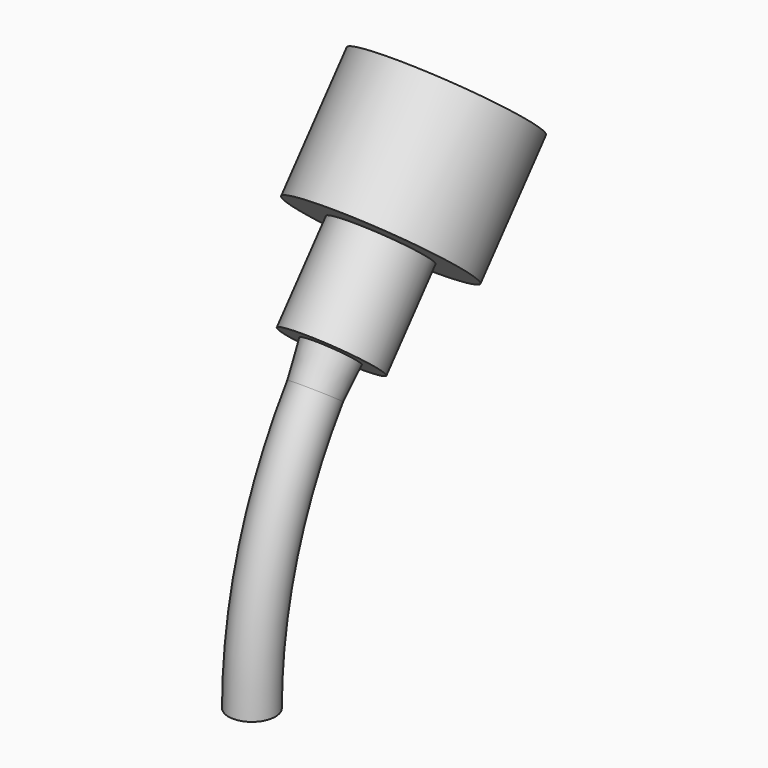
from build123d import *

# Parameters (mm, degrees)
CONE002_ROLL_ANGLE         = -35.5
BOX001027045012_W          = 10
BOX001027045012_H          = 24
BOX001027045012_DEPTH      = 22
BOX001027045012_ROLL_ANGLE = -35.5
BOX001027045011_W          = 10
BOX001027045011_H          = 24
BOX001027045011_DEPTH      = 22
TORUS002_R                 = 1.1
TORUS002_PITCH_ANGLE       = 90
CYLINDER121_R              = 4
CYLINDER121_DEPTH          = 6
CYLINDER121_ROLL_ANGLE     = -40
CYLINDER120_R              = 2.2
CYLINDER120_DEPTH          = 10
CYLINDER120_ROLL_ANGLE     = -40


with BuildPart() as cone002:
    # Cone002 → Cone002 (revolve)
    with BuildSketch(Plane.XZ):
        Polygon((0, 0), (1.1, 0), (1.3, 2), (0, 2), align=None)
    revolve(axis=Axis((0, 0, 0), (0, 0, 1)))


with BuildPart() as cone002_1:
    # Cone002 roll: moved
    add(cone002.part.rotate(Axis((0, 0, 0), (1, 0, 0)), CONE002_ROLL_ANGLE))


with BuildPart() as cone002_2:
    # Cone002 placement: moved
    add(cone002_1.part.moved(Location((0, 3.71769, 11.614059))))


with BuildPart() as cube065:
    # Box001027045012 → Box001027045012 (new body)
    with BuildSketch(Plane.XY):
        with Locations((5, 12)):
            Rectangle(BOX001027045012_W, BOX001027045012_H)
    extrude(amount=BOX001027045012_DEPTH)


with BuildPart() as cube065_1:
    # Box001027045012 roll: moved
    add(cube065.part.rotate(Axis((0, 0, 0), (1, 0, 0)), BOX001027045012_ROLL_ANGLE))


with BuildPart() as cube065_2:
    # Box001027045012 placement: moved
    add(cube065_1.part.moved(Location((-5, 0.461228, 13.936871))))


with BuildPart() as cube064:
    # Box001027045011 → Box001027045011 (new body)
    with BuildSketch(Plane(origin=(-5, -4, 0), x_dir=(1, 0, 0), z_dir=(0, 0, 1))):
        with Locations((5, 12)):
            Rectangle(BOX001027045011_W, BOX001027045011_H)
    extrude(amount=BOX001027045011_DEPTH)


with BuildPart() as cut068:
    # Torus002 → Torus002 (revolve)
    with BuildSketch(Plane.XZ):
        with Locations((20, 0)):
            Circle(TORUS002_R)
    revolve(axis=Axis((0, 0, 0), (0, 0, 1)))


with BuildPart() as cut068_1:
    # Torus002 pitch: moved
    add(cut068.part.rotate(Axis((0, 0, 0), (0, 1, 0)), TORUS002_PITCH_ANGLE))


with BuildPart() as cut068_2:
    # Torus002 placement: moved
    add(cut068_1.part.moved(Location((0, 20, 0))))

    # Common054: intersect Cube064
    add(cube064.part, mode=Mode.INTERSECT)

    # Cut068: cut Cube065
    add(cube065_2.part, mode=Mode.SUBTRACT)


with BuildPart() as cylinder179:
    # Cylinder121 → Cylinder121 (new body)
    with BuildSketch(Plane.XY):
        Circle(CYLINDER121_R)
    extrude(amount=CYLINDER121_DEPTH)


with BuildPart() as cylinder179_1:
    # Cylinder121 roll: moved
    add(cylinder179.part.rotate(Axis((0, 0, 0), (1, 0, 0)), CYLINDER121_ROLL_ANGLE))


with BuildPart() as cylinder179_2:
    # Cylinder121 placement: moved
    add(cylinder179_1.part.moved(Location((0, 7.571655, 16.302952))))


with BuildPart() as obj1:
    # Cylinder120 → Cylinder120 (new body)
    with BuildSketch(Plane.XY):
        Circle(CYLINDER120_R)
    extrude(amount=CYLINDER120_DEPTH)


with BuildPart() as obj1_1:
    # Cylinder120 roll: moved
    add(obj1.part.rotate(Axis((0, 0, 0), (1, 0, 0)), CYLINDER120_ROLL_ANGLE))


with BuildPart() as obj1_2:
    # Cylinder120 placement: moved
    add(obj1_1.part.moved(Location((0, 4.679111, 12.855752))))

    # Fusion112027: union Cone002, Cut068, Cylinder179
    add(cone002_2.part)
    add(cut068_2.part)
    add(cylinder179_2.part)


with BuildPart() as obj1_3:
    # Fusion112027 placement: moved
    add(obj1_2.part.moved(Location((0, 0, 44))))


solid = obj1_3.part
